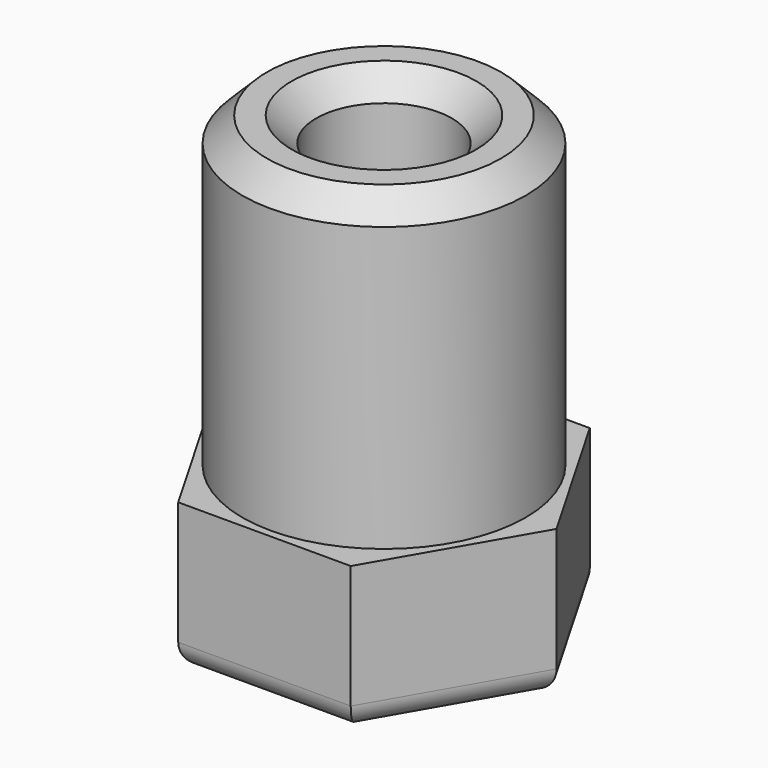
from build123d import *

# Parameters (mm, degrees)
PAD_DEPTH     = 6
SKETCH001_R   = 5.75
SKETCH001_R_2 = 2.75
PAD001_DEPTH  = 12.5
CHAMFER_SIZE  = 1
FILLET_R      = 1
SKETCH002_R   = 2
POCKET_DEPTH  = 18.501


with BuildPart() as part:
    # Sketch → Pad (new body)
    with BuildSketch(Plane.XY):
        Polygon((3.5, -6.062178), (7, 0), (3.5, 6.062178), (-3.5, 6.062178), (-7, 0), (-3.5, -6.062178), align=None)
    extrude(amount=PAD_DEPTH)

    # Sketch001 → Pad001 (join)
    with BuildSketch(Plane.XY.offset(6)):
        Circle(SKETCH001_R)
        Circle(SKETCH001_R_2, mode=Mode.SUBTRACT)
    extrude(amount=PAD001_DEPTH)

    # Chamfer
    chamfer_edges = [part.edges().sort_by_distance(p)[0] for p in [
        (-2.75, 0, 18.5),
        (-5.75, 0, 18.5),
    ]]
    chamfer(chamfer_edges, length=CHAMFER_SIZE)

    # Fillet
    fillet_edges = [part.edges().sort_by_distance(p)[0] for p in [
        (5.25, 3.031089, 0),
        (5.25, -3.031089, 0),
        (0, -6.062178, 0),
        (-5.25, -3.031089, 0),
        (-5.25, 3.031089, 0),
        (0, 6.062178, 0),
    ]]
    fillet(fillet_edges, radius=FILLET_R)

    # Sketch002 → Pocket (cut, through all)
    with BuildSketch(Plane.XY):
        Circle(SKETCH002_R)
    extrude(amount=POCKET_DEPTH, mode=Mode.SUBTRACT)


solid = part.part
